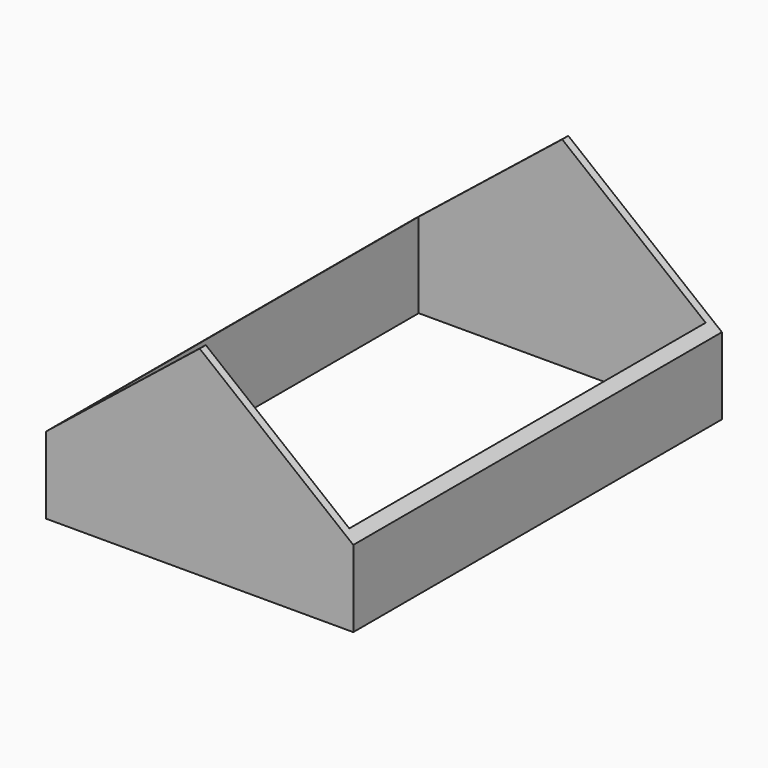
from build123d import *

# Parameters (mm, degrees)
F0_W     = 508
F0_H     = 762
F0_W_2   = 474.472
F0_H_2   = 736.6
F1_DEPTH = 330.2
F3_DEPTH = 762.001


with BuildPart() as f1:
    # F0 (on Top) → F1 (new body)
    with BuildSketch(Plane.XY):
        with Locations((254, 381)):
            Rectangle(F0_W, F0_H)
        with Locations((254, 381)):
            Rectangle(F0_W_2, F0_H_2, mode=Mode.SUBTRACT)
    extrude(amount=F1_DEPTH)

    # F2 (on Front) → F3 (cut, through all)
    with BuildSketch(Plane.XZ):
        Polygon((0, 330.2), (0, 127), (254, 330.2), align=None)
        Polygon((508, 330.2), (254, 330.2), (508, 127), align=None)
    extrude(amount=-F3_DEPTH, mode=Mode.SUBTRACT)


solid = f1.part
